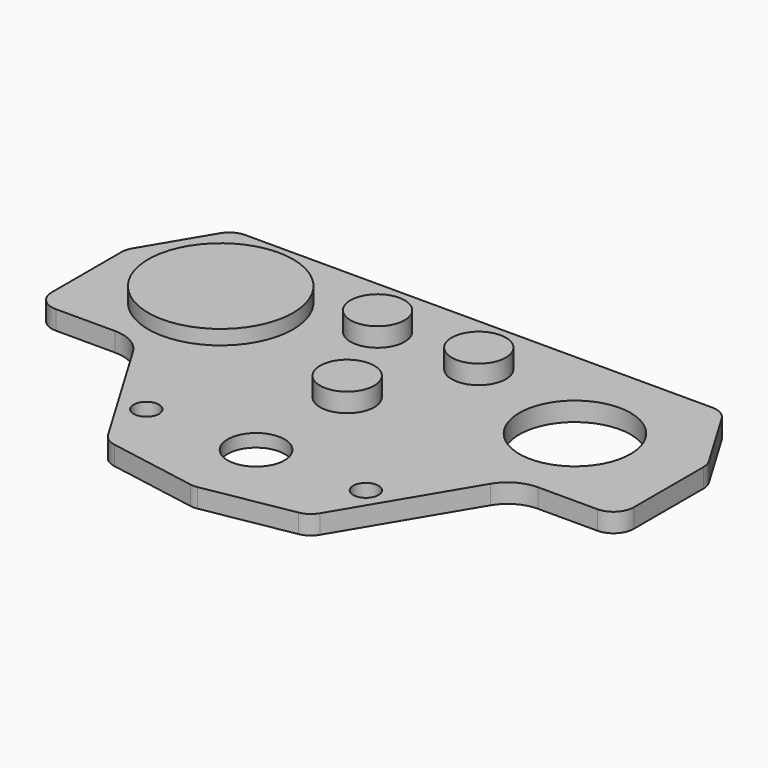
from build123d import *

# Parameters (mm, degrees)
F0_R      = 3.175
F0_R_2    = 7.14375
F1_DEPTH  = 4.7625
F2_R      = 9.525
F3_R      = 5.08
F4_R      = 13.97
F5_DEPTH  = 25.4
F7_DEPTH  = 1.524
F10_W     = 18.19275
F10_H     = 3.6449
F12_R     = 6.7945
F13_DEPTH = 4.7625


with BuildPart() as f1:
    # F0 (on Top) → F1 (new body)
    with BuildSketch(Plane.XY):
        Polygon((-47.625, 22.098), (-25.4, -15.201417), (0, -19.680122), (25.4, -15.201417), (47.625, 22.098), (73.025, 22.098), (73.025, 50.431723), (61.454545, 69.85), (0, 69.85), (-61.454545, 69.85), (-73.025, 50.431723), (-73.025, 22.098), align=None)
        with Locations((-27.5463, 0)):
            Circle(F0_R, mode=Mode.SUBTRACT)
        Circle(F0_R_2, mode=Mode.SUBTRACT)
        with Locations((27.5463, 0)):
            Circle(F0_R, mode=Mode.SUBTRACT)
    extrude(amount=F1_DEPTH)

    # F2
    f2_edges = [f1.edges().sort_by_distance(p)[0] for p in [
        (-47.625, 22.098, 2.38125),
        (47.625, 22.098, 2.38125),
    ]]
    fillet(f2_edges, radius=F2_R)

    # F3
    f3_edges = [f1.edges().sort_by_distance(p)[0] for p in [
        (-73.025, 22.098, 2.38125),
        (-25.4, -15.201417, 2.38125),
        (0, -19.680122, 2.38125),
        (25.4, -15.201417, 2.38125),
        (73.025, 22.098, 2.38125),
        (73.025, 50.431723, 2.38125),
        (61.454545, 69.85, 2.38125),
        (-73.025, 50.431723, 2.38125),
        (-61.454545, 69.85, 2.38125),
    ]]
    fillet(f3_edges, radius=F3_R)

    # F4 (on Top) → F5 (cut)
    with BuildSketch(Plane.XY):
        with Locations((-44.45, 44.45)):
            Circle(F4_R)
        with Locations((44.45, 44.45)):
            Circle(F4_R)
    extrude(amount=F5_DEPTH, mode=Mode.SUBTRACT)

    # F6 (on Top) → F7 (cut)
    with BuildSketch(Plane.XY):
        with BuildLine():
            Line((-16.51, 10.16), (-16.51, -10.16))
            ThreePointArc((-16.51, -10.16), (-14.650128, -14.650128), (-10.16, -16.51))
            Line((-10.16, -16.51), (10.16, -16.51))
            ThreePointArc((10.16, -16.51), (14.650128, -14.650128), (16.51, -10.16))
            Line((16.51, -10.16), (16.51, 10.16))
            ThreePointArc((16.51, 10.16), (14.650128, 14.650128), (10.16, 16.51))
            Line((10.16, 16.51), (-10.16, 16.51))
            ThreePointArc((-10.16, 16.51), (-14.650128, 14.650128), (-16.51, 10.16))
        make_face()
    extrude(amount=F7_DEPTH, mode=Mode.SUBTRACT)


with BuildPart() as f11:
    # F10 (on offset) → F11 (revolve)
    with BuildSketch(Plane.XZ.offset(-44.45)):
        with Locations((-35.353625, 6.58495)):
            Rectangle(F10_W, F10_H)
    revolve(axis=Axis((-44.45, 44.45, -2.462427), (0, 0, -1)))


with BuildPart() as f13:
    # F12 (on face) → F13 (new body)
    with BuildSketch(Plane.XY.offset(4.7625)):
        with Locations((-12.7, 53.975)):
            Circle(F12_R)
        with Locations((0, 28.575)):
            Circle(F12_R)
        with Locations((12.7, 53.975)):
            Circle(F12_R)
    extrude(amount=F13_DEPTH)


solid = Compound([f1.part, f11.part, f13.part])
